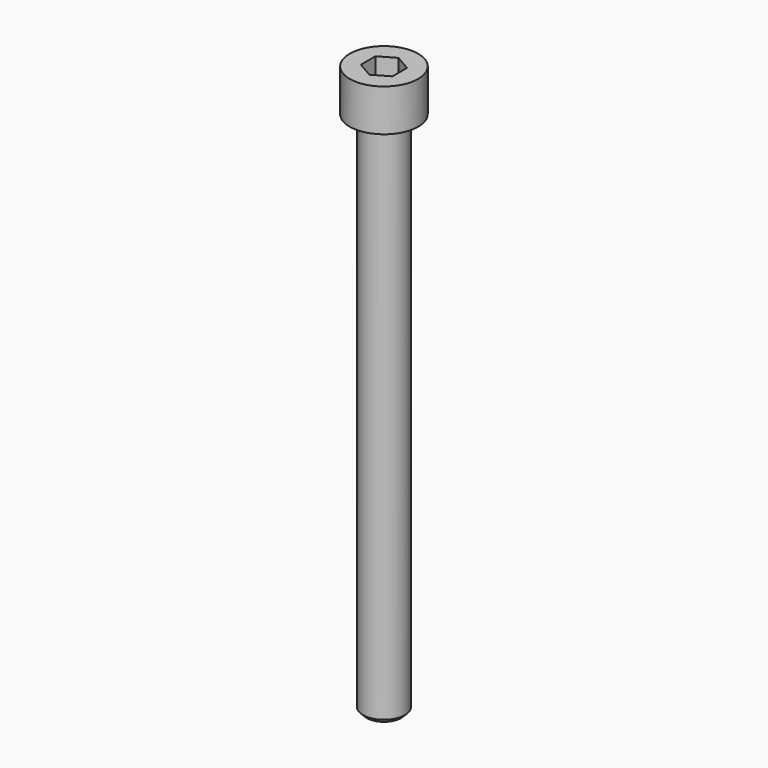
from build123d import *

# Parameters (mm, degrees)
F4_DEPTH      = 6
F4_DEPTH_BACK = 6


with BuildPart() as f1:
    # F0 (on Front) → F1 (revolve)
    with BuildSketch(Plane.XZ):
        Polygon((0, 8), (-6.5, 8), (-6.5, 0), (-4, 0), (-4, -99.235), (-3.235, -100), (0, -100), align=None)
    revolve(axis=Axis((0, 0, -46), (0, 0, -1)))

    # F3 (on offset) → F4 (cut, two sides)
    with BuildSketch(Plane.XY.offset(8)) as f4_sk:
        Polygon((3, -1.732051), (3, 1.732051), (0, 3.464102), (-3, 1.732051), (-3, -1.732051), (0, -3.464102), align=None)
    extrude(amount=-F4_DEPTH, mode=Mode.SUBTRACT)
    extrude(f4_sk.sketch, amount=-F4_DEPTH_BACK, mode=Mode.SUBTRACT)


solid = f1.part
